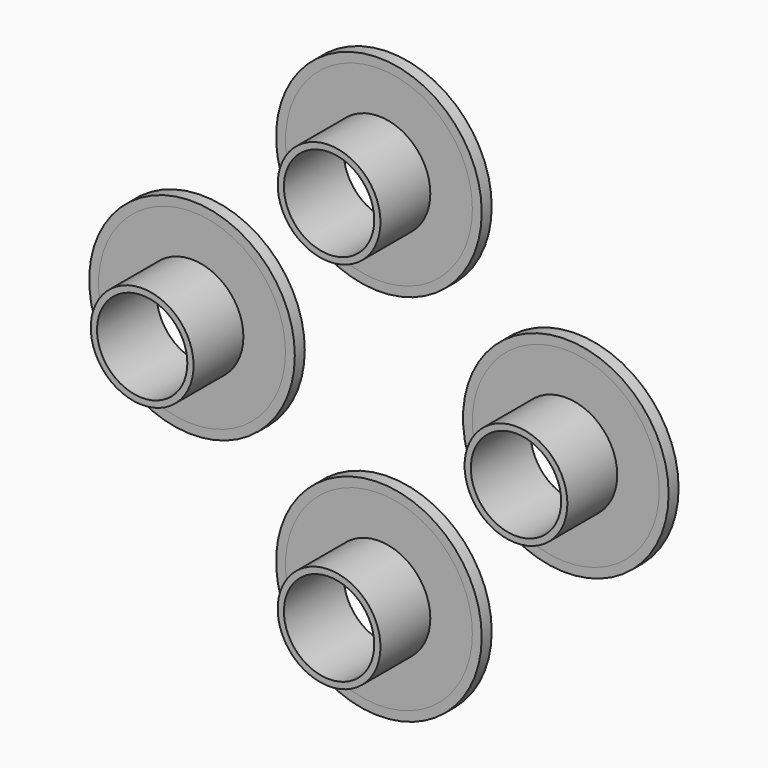
from build123d import *

# Parameters (mm, degrees)
F0_R     = 8.25
F0_R_2   = 7.25
F1_DEPTH = 12
F0_R_3   = 15
F2_DEPTH = 2
F0_R_4   = 16.5
F3_DEPTH = 2


with BuildPart() as f1:
    # F0 (on Front) → F1 (new body)
    with BuildSketch(Plane.XZ):
        with Locations((-30, 0)):
            Circle(F0_R)
        with Locations((-30, 0)):
            Circle(F0_R_2, mode=Mode.SUBTRACT)
        with Locations((0, -30)):
            Circle(F0_R)
        with Locations((0, -30)):
            Circle(F0_R_2, mode=Mode.SUBTRACT)
        with Locations((30, 0)):
            Circle(F0_R)
        with Locations((30, 0)):
            Circle(F0_R_2, mode=Mode.SUBTRACT)
        with Locations((0, 30)):
            Circle(F0_R)
        with Locations((0, 30)):
            Circle(F0_R_2, mode=Mode.SUBTRACT)
    extrude(amount=F1_DEPTH)


with BuildPart() as f2:
    # F0 (on Front) → F2 (new body)
    with BuildSketch(Plane.XZ):
        with Locations((-30, 0)):
            Circle(F0_R_3)
        with Locations((-30, 0)):
            Circle(F0_R, mode=Mode.SUBTRACT)
        with Locations((0, -30)):
            Circle(F0_R_3)
        with Locations((0, -30)):
            Circle(F0_R, mode=Mode.SUBTRACT)
        with Locations((30, 0)):
            Circle(F0_R_3)
        with Locations((30, 0)):
            Circle(F0_R, mode=Mode.SUBTRACT)
        with Locations((0, 30)):
            Circle(F0_R_3)
        with Locations((0, 30)):
            Circle(F0_R, mode=Mode.SUBTRACT)
    extrude(amount=F2_DEPTH)


with BuildPart() as f3:
    # F0 (on Front) → F3 (new body)
    with BuildSketch(Plane.XZ):
        with Locations((30, 0)):
            Circle(F0_R_4)
        with Locations((30, 0)):
            Circle(F0_R_3, mode=Mode.SUBTRACT)
        with Locations((0, -30)):
            Circle(F0_R_4)
        with Locations((0, -30)):
            Circle(F0_R_3, mode=Mode.SUBTRACT)
        with Locations((-30, 0)):
            Circle(F0_R_4)
        with Locations((-30, 0)):
            Circle(F0_R_3, mode=Mode.SUBTRACT)
        with Locations((0, 30)):
            Circle(F0_R_4)
        with Locations((0, 30)):
            Circle(F0_R_3, mode=Mode.SUBTRACT)
    extrude(amount=F3_DEPTH)


solid = Compound([f1.part, f2.part, f3.part])
